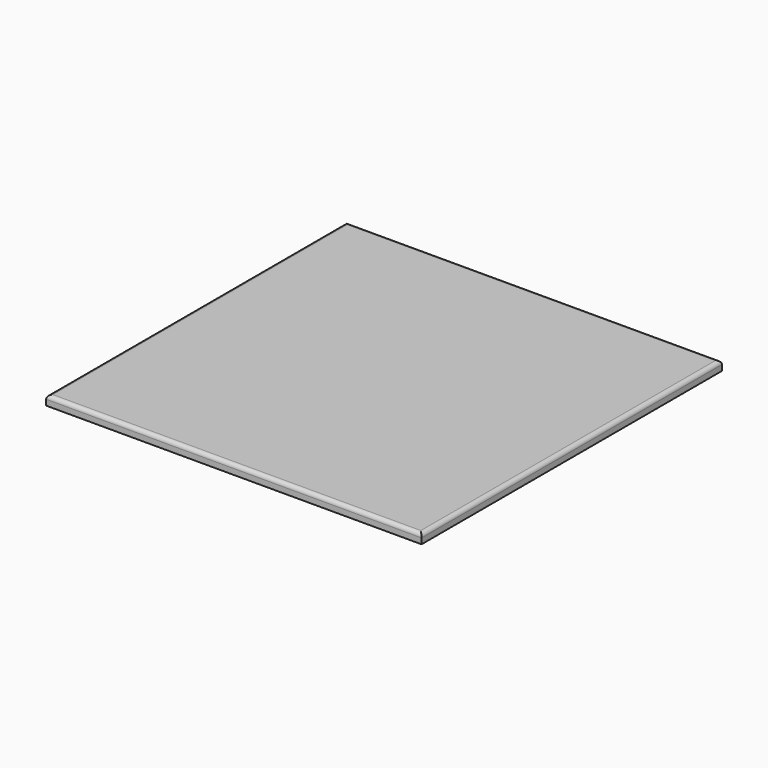
from build123d import *

# Parameters (mm, degrees)
F0_W      = 1000
F0_H      = 25
F1_DEPTH  = 1000
F2_R      = 10
F3_R      = 5
F4_DEPTH  = 12
F6_R      = 6.401236
F7_DEPTH  = 12
F5_R      = 5
F8_DEPTH  = 12
F9_R      = 5
F10_DEPTH = 12


with BuildPart() as f1:
    # F0 (on Front) → F1 (new body)
    with BuildSketch(Plane.XZ):
        with Locations((500, 12.5)):
            Rectangle(F0_W, F0_H)
    extrude(amount=F1_DEPTH)

    # F2
    f2_edges = [f1.edges().sort_by_distance(p)[0] for p in [
        (500, -1000, 25),
        (1000, -500, 25),
        (500, 0, 25),
        (0, -500, 25),
    ]]
    fillet(f2_edges, radius=F2_R)

    # F3 (on face) → F4 (cut)
    with BuildSketch(Plane(origin=(0, 0, 0), x_dir=(1, 0, 0), z_dir=(0, 0, -1))):
        with Locations((30, 970)):
            Circle(F3_R)
    extrude(amount=-F4_DEPTH, mode=Mode.SUBTRACT)

    # F6 (on face) → F7 (cut)
    with BuildSketch(Plane(origin=(0, 0, 0), x_dir=(1, 0, 0), z_dir=(0, 0, -1))):
        with Locations((970, 30)):
            Circle(F6_R)
    extrude(amount=-F7_DEPTH, mode=Mode.SUBTRACT)

    # F5 (on face) → F8 (cut)
    with BuildSketch(Plane(origin=(0, 0, 0), x_dir=(1, 0, 0), z_dir=(0, 0, -1))):
        with Locations((970, 970)):
            Circle(F5_R)
    extrude(amount=-F8_DEPTH, mode=Mode.SUBTRACT)

    # F9 (on face) → F10 (cut)
    with BuildSketch(Plane(origin=(0, 0, 0), x_dir=(1, 0, 0), z_dir=(0, 0, -1))):
        with Locations((30, 30)):
            Circle(F9_R)
    extrude(amount=-F10_DEPTH, mode=Mode.SUBTRACT)


solid = f1.part
